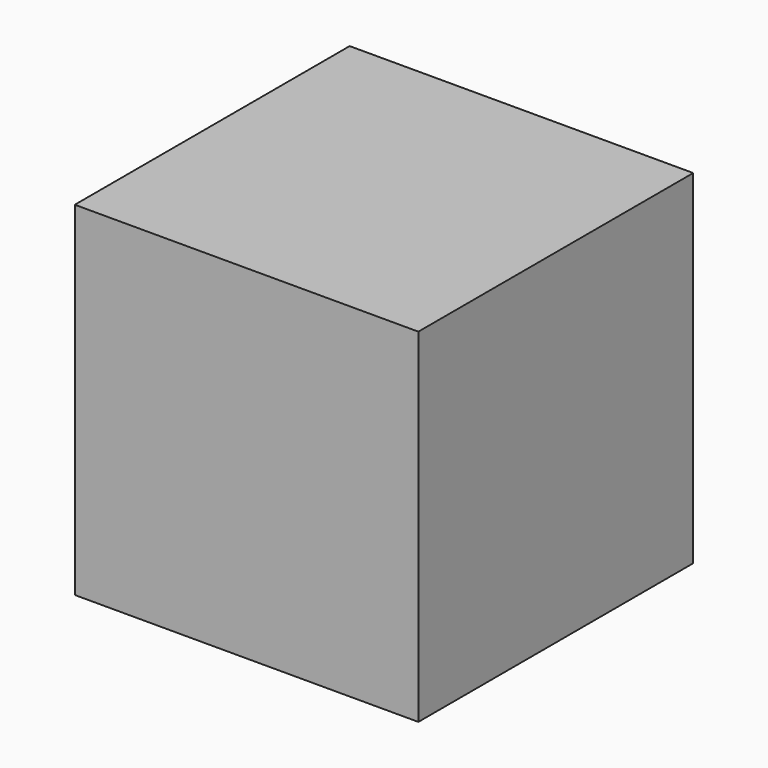
from build123d import *

# Parameters (mm, degrees)
F0_W      = 304.8
F0_H      = 304.8
F0_W_2    = 292.1
F0_H_2    = 292.1
F1_DEPTH  = 152.4
F2_W      = 304.8
F2_H      = 304.8
F3_DEPTH  = 6.35
F5_D      = 0.0254
F5_DEPTH  = 12.7
F6_D      = 0.0254
F6_DEPTH  = 12.7
F8_D      = 0.0254
F8_DEPTH  = 12.7
F9_D      = 0.0254
F9_DEPTH  = 12.7
F12_D     = 0.0254
F12_DEPTH = 12.7
F13_D     = 0.0254
F13_DEPTH = 12.7
F14_D     = 0.0254
F14_DEPTH = 12.7
F15_D     = 0.0254
F15_DEPTH = 12.7
F16_D     = 0.0254
F16_DEPTH = 12.7
F17_D     = 0.0254
F17_DEPTH = 12.7


with BuildPart() as f1:
    # F0 (on Top) → F1 (new body, symmetric)
    with BuildSketch(Plane.XY):
        Rectangle(F0_W, F0_H)
        Rectangle(F0_W_2, F0_H_2, mode=Mode.SUBTRACT)
    extrude(amount=F1_DEPTH, both=True)

    # F2 (on face) → F3 (join)
    with BuildSketch(Plane.XY.offset(152.4)):
        Rectangle(F2_W, F2_H)
    extrude(amount=-F3_DEPTH)

    # F5
    with Locations(Plane(origin=(0, 152.4, 0), x_dir=(-1, 0, 0), z_dir=(0, 1, 0))):
        with Locations((38.1, 0)):
            Hole(F5_D / 2, depth=F5_DEPTH)

    # F6
    with Locations(Plane(origin=(0, 152.4, 0), x_dir=(-1, 0, 0), z_dir=(0, 1, 0))):
        with Locations((-106.68, -120.65)):
            Hole(F6_D / 2, depth=F6_DEPTH)

    # F8
    with Locations(Plane.XZ.offset(152.4)):
        with Locations((-106.68, -120.65)):
            Hole(F8_D / 2, depth=F8_DEPTH)

    # F9
    with Locations(Plane.XZ.offset(152.4)):
        with Locations((38.1, 0)):
            Hole(F9_D / 2, depth=F9_DEPTH)

    # F12
    with Locations(Plane.YZ.offset(152.4)):
        with Locations((-106.68, -120.65)):
            Hole(F12_D / 2, depth=F12_DEPTH)

    # F13
    with Locations(Plane.YZ.offset(152.4)):
        with Locations((76.2, 76.2)):
            Hole(F13_D / 2, depth=F13_DEPTH)

    # F14
    with Locations(Plane.YZ.offset(152.4)):
        with Locations((-120.65, 45.72)):
            Hole(F14_D / 2, depth=F14_DEPTH)

    # F15
    with Locations(Plane(origin=(-152.4, 0, 0), x_dir=(0, -1, 0), z_dir=(-1, 0, 0))):
        with Locations((-106.68, -120.65)):
            Hole(F15_D / 2, depth=F15_DEPTH)

    # F16
    with Locations(Plane(origin=(-152.4, 0, 0), x_dir=(0, -1, 0), z_dir=(-1, 0, 0))):
        with Locations((-120.65, 45.72)):
            Hole(F16_D / 2, depth=F16_DEPTH)

    # F17
    with Locations(Plane(origin=(-152.4, 0, 0), x_dir=(0, -1, 0), z_dir=(-1, 0, 0))):
        with Locations((76.2, 76.2)):
            Hole(F17_D / 2, depth=F17_DEPTH)


solid = f1.part
